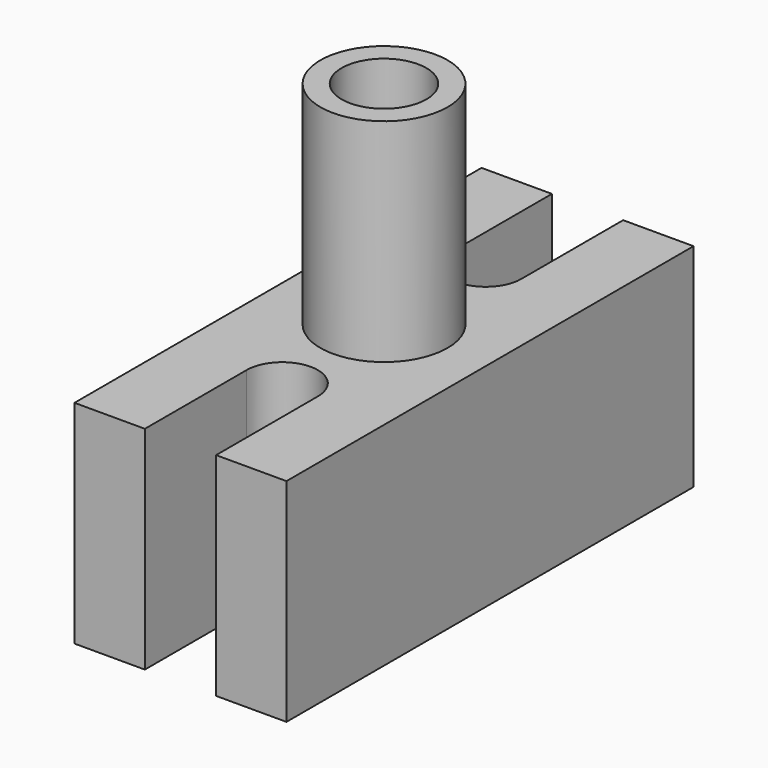
from build123d import *

# Parameters (mm, degrees)
F0_R     = 5
F1_DEPTH = 25
F2_R     = 7.5
F2_R_2   = 5
F3_DEPTH = 25


with BuildPart() as f1:
    # F0 (on Top) → F1 (new body)
    with BuildSketch(Plane.XY):
        with BuildLine():
            Line((4.2, -30), (12.5, -30))
            Line((12.5, -30), (12.5, 30))
            Line((12.5, 30), (4.2, 30))
            Line((4.2, 30), (4.2, 15))
            ThreePointArc((4.2, 15), (0, 10.8), (-4.2, 15))
            Line((-4.2, 15), (-4.2, 30))
            Line((-4.2, 30), (-12.5, 30))
            Line((-12.5, 30), (-12.5, -30))
            Line((-12.5, -30), (-4.2, -30))
            Line((-4.2, -30), (-4.2, -15))
            ThreePointArc((-4.2, -15), (0, -10.8), (4.2, -15))
            Line((4.2, -15), (4.2, -30))
        make_face()
        Circle(F0_R, mode=Mode.SUBTRACT)
    extrude(amount=F1_DEPTH)

    # F2 (on face) → F3 (join)
    with BuildSketch(Plane.XY.offset(25)):
        Circle(F2_R)
        Circle(F2_R_2, mode=Mode.SUBTRACT)
    extrude(amount=F3_DEPTH)


solid = f1.part
